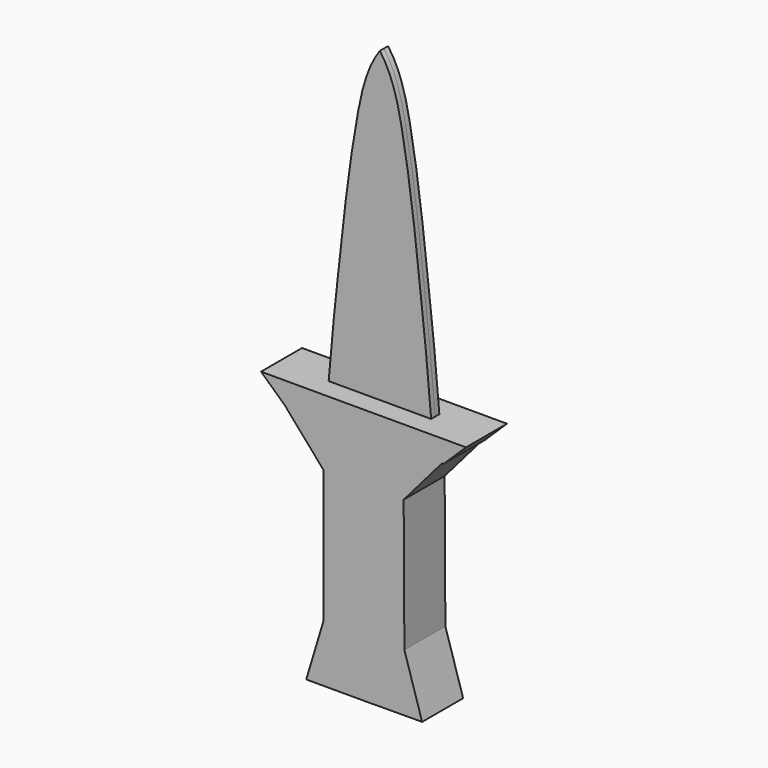
from build123d import *

# Parameters (mm, degrees)
F1_DEPTH      = 6.35
F1_DEPTH_BACK = 6.35
F2_DEPTH      = 1.27
F2_DEPTH_BACK = 1.27


with BuildPart() as f1:
    # F0 (on Front) → F1 (new body, two sides)
    with BuildSketch(Plane.XZ) as f1_sk:
        Polygon((0.0143385193, -5.4060807452), (0, 0), (-12.7, 0), (-25.4, 0), (-19.5305618315, -5.4060807452), align=None)
        Polygon((12.7, 0), (0, 0), (0.0143385193, -5.4060807452), (19.469536428, -5.4060807452), (19.8675170541, -5.4060807452), (25.4, 0), align=None)
        Polygon((19.469536428, -5.4060807452), (0.0143385193, -5.4060807452), (0.1684776113, -63.5214522481), (14.5302451709, -63.4452684321), (10.1291051011, -49.1423027949), (9.955610202, -16.4359676942), align=None)
        Polygon((0.1684776113, -63.5214522481), (0.0143385193, -5.4060807452), (-19.5305618315, -5.4060807452), (-9.8682846874, -16.4885465056), (-9.8682846874, -49.1953417659), (-14.1934920102, -63.5214522481), align=None)
    extrude(amount=F1_DEPTH)
    extrude(f1_sk.sketch, amount=-F1_DEPTH_BACK)

    # F0 (on Front) → F2 (join, two sides)
    with BuildSketch(Plane.XZ) as f2_sk:
        with BuildLine():
            Line((0, 0), (0, 76.2))
            add(Edge.make_bspline(
                [(0, 76.2), (-3.4750850201, 71.4645494629), (-5.982896886, 58.7807970856), (-8.3321200363, 42.9630029697), (-10.0387668581, 26.2183809123), (-11.3909318937, 15.7945735456), (-12.7, 0)],
                knots=[0, 0, 0, 0, 0.2445591709, 0.4765440549, 0.69405879, 1, 1, 1, 1], degree=3))
            Line((-12.7, 0), (0, 0))
        make_face()
        with BuildLine():
            add(Edge.make_bspline(
                [(0, 76.2), (3.4750850201, 71.4645494629), (5.982896886, 58.7807970856), (8.3321200363, 42.9630029697), (10.0387668581, 26.2183809123), (11.3909318937, 15.7945735456), (12.7, 0)],
                knots=[0, 0, 0, 0, 0.2445591709, 0.4765440549, 0.69405879, 1, 1, 1, 1], degree=3))
            Line((0, 76.2), (0, 0))
            Line((0, 0), (12.7, 0))
        make_face()
    extrude(amount=F2_DEPTH)
    extrude(f2_sk.sketch, amount=-F2_DEPTH_BACK)


solid = f1.part
